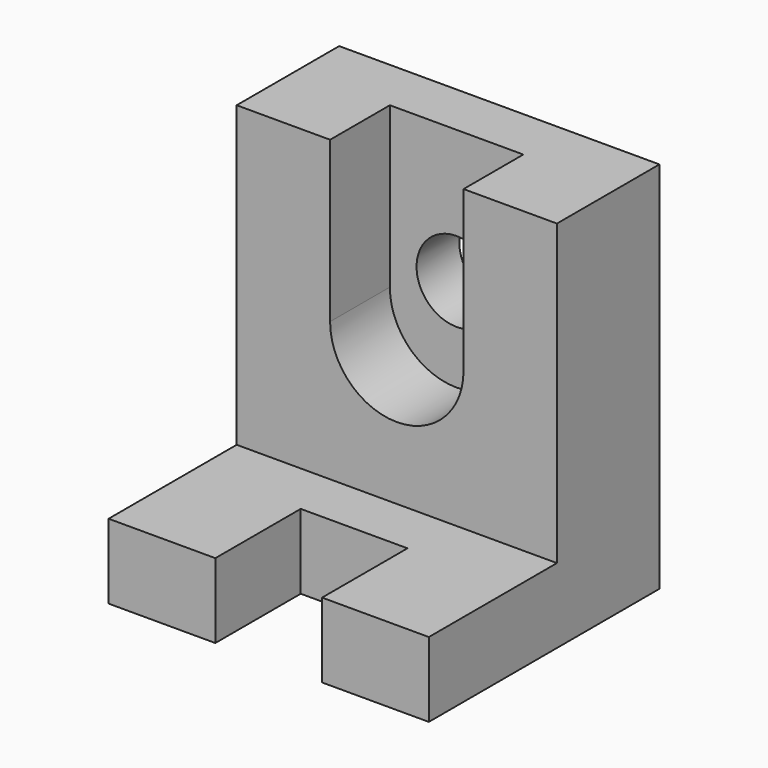
from build123d import *

# Parameters (mm, degrees)
F0_W     = 600
F0_H     = 700
F1_DEPTH = 540
F2_W     = 600
F2_H     = 560
F3_DEPTH = 300
F4_W     = 200
F4_H     = 140
F5_DEPTH = 200
F6_W     = 250
F6_H     = 600
F7_DEPTH = 140
F8_R     = 75
F9_DEPTH = 100.001


with BuildPart() as f1:
    # F0 (on Front) → F1 (new body)
    with BuildSketch(Plane.XZ):
        Rectangle(F0_W, F0_H)
    extrude(amount=F1_DEPTH)

    # F2 (on face) → F3 (cut)
    with BuildSketch(Plane.XZ.offset(540)):
        with Locations((0, 70)):
            Rectangle(F2_W, F2_H)
    extrude(amount=-F3_DEPTH, mode=Mode.SUBTRACT)

    # F4 (on face) → F5 (cut)
    with BuildSketch(Plane.XZ.offset(540)):
        with Locations((0, -280)):
            Rectangle(F4_W, F4_H)
    extrude(amount=-F5_DEPTH, mode=Mode.SUBTRACT)

    # F6 (on face) → F7 (cut)
    with BuildSketch(Plane.XZ.offset(240)):
        with BuildLine():
            ThreePointArc((-125, 50), (0, -75), (125, 50))
            Line((125, 50), (-125, 50))
        make_face()
        with Locations((0, 350)):
            Rectangle(F6_W, F6_H)
    extrude(amount=-F7_DEPTH, mode=Mode.SUBTRACT)

    # F8 (on face) → F9 (cut, through all)
    with BuildSketch(Plane.XZ.offset(100)):
        with Locations((0, 100)):
            Circle(F8_R)
    extrude(amount=-F9_DEPTH, mode=Mode.SUBTRACT)


solid = f1.part
